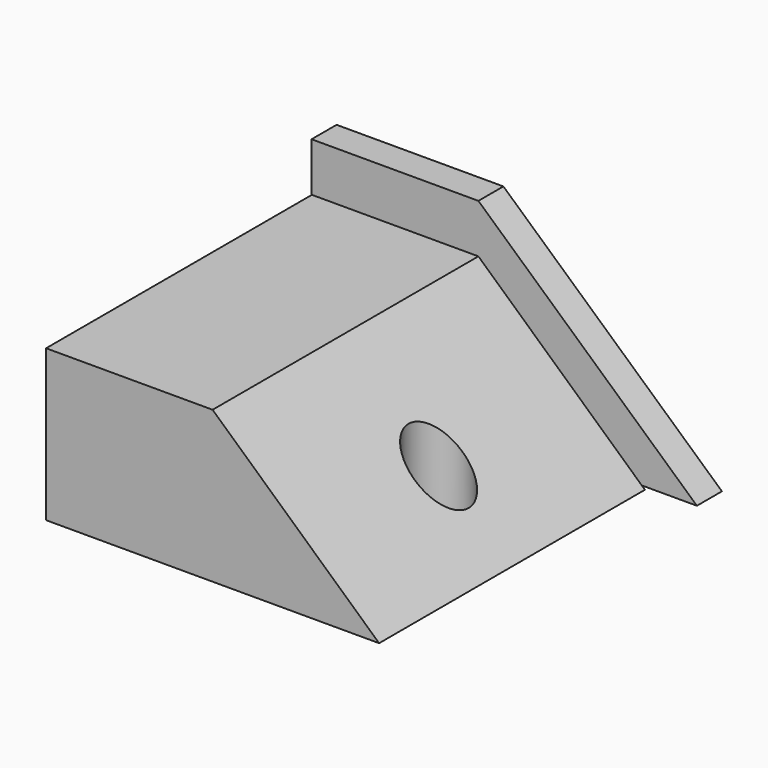
from build123d import *

# Parameters (mm, degrees)
F1_DEPTH = 64.77
F3_DEPTH = 6.096
F4_R     = 5.860141
F5_DEPTH = 79.248


with BuildPart() as f1:
    # F0 (on Front) → F1 (new body)
    with BuildSketch(Plane.XZ):
        Polygon((32.464709, -14.754961), (0, 14.754961), (-32.464709, 14.754961), (-32.464709, -14.754961), align=None)
    extrude(amount=F1_DEPTH)

    # F2 (on Front) → F3 (join)
    with BuildSketch(Plane.XZ):
        Polygon((-32.523151, -14.200249), (42.600743, -14.200249), (0, 24.277844), (-32.523151, 24.277844), align=None)
    extrude(amount=-F3_DEPTH)

    # F4 (on face) → F5 (cut)
    with BuildSketch(Plane(origin=(0, 0, -14.754961), x_dir=(1, 0, 0), z_dir=(0, 0, -1))):
        with Locations((18.379251, 32.672778)):
            Circle(F4_R)
    extrude(amount=-F5_DEPTH, mode=Mode.SUBTRACT)


solid = f1.part
